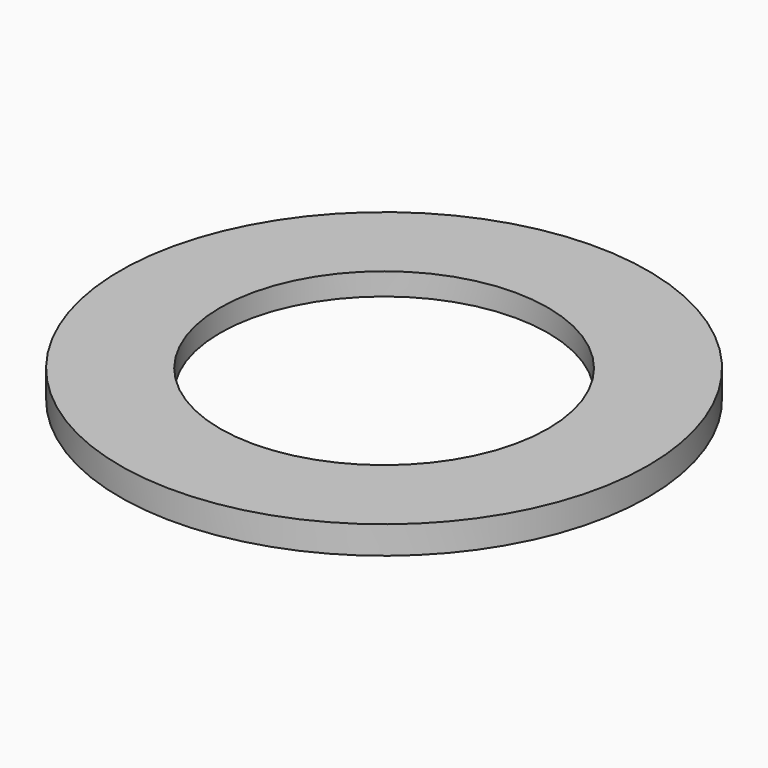
from build123d import *

# Parameters (mm, degrees)
F0_R     = 9.5
F0_R_2   = 8
F0_R_3   = 5.9
F1_DEPTH = 1
F2_DEPTH = 0.2


with BuildPart() as f1:
    # F0 (on Top) → F1 (new body)
    with BuildSketch(Plane.XY):
        with Locations((-21.193376, 6.891736)):
            Circle(F0_R)
        with Locations((-21.193376, 6.891736)):
            Circle(F0_R_2, mode=Mode.SUBTRACT)
        with Locations((-21.193376, 6.891736)):
            Circle(F0_R_2)
        with Locations((-21.193376, 6.891736)):
            Circle(F0_R_3, mode=Mode.SUBTRACT)
    extrude(amount=F1_DEPTH)

    # F0 (on Top) → F2 (cut)
    with BuildSketch(Plane.XY):
        with Locations((-21.193376, 6.891736)):
            Circle(F0_R_2)
        with Locations((-21.193376, 6.891736)):
            Circle(F0_R_3, mode=Mode.SUBTRACT)
    extrude(amount=F2_DEPTH, mode=Mode.SUBTRACT)


solid = f1.part
